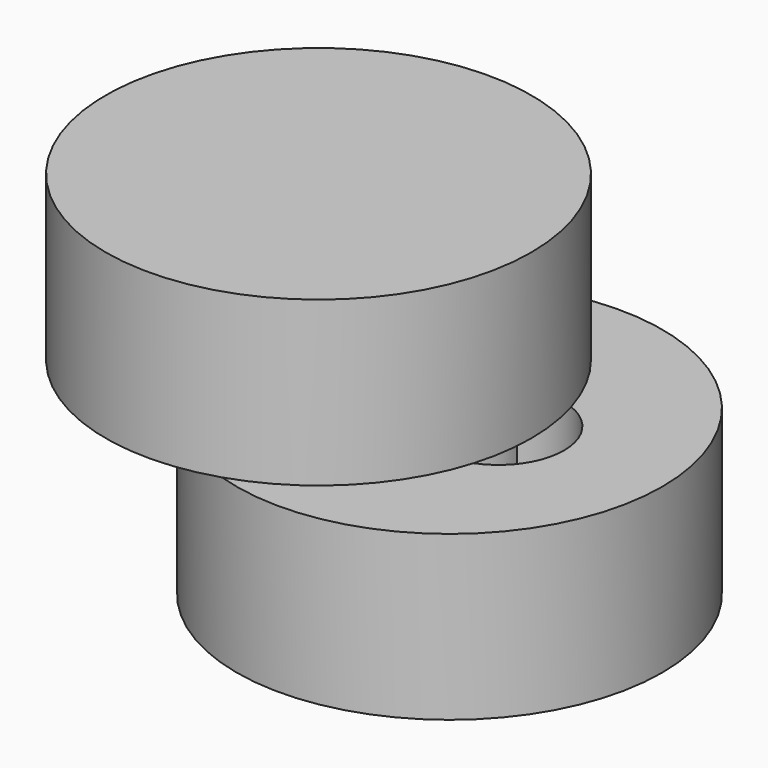
from build123d import *

# Parameters (mm, degrees)
KEY1SKETCH_R       = 6.5
KEYPADPAD_DEPTH    = 5
KEY2SKETCH_R       = 6.5
KEYPADPAD001_DEPTH = 5
PIN1SKETCH001_R    = 2
PIN1POCKET_DEPTH   = 10
PIN2SKETCH001_R    = 2
PIN2POCKET_DEPTH   = 10


with BuildPart() as part:
    # key1Sketch → keyPadPad (new body)
    with BuildSketch(Plane.XY):
        with Locations((2, 0)):
            Circle(KEY1SKETCH_R)
    extrude(amount=KEYPADPAD_DEPTH)

    # key2Sketch → keyPadPad001 (join)
    with BuildSketch(Plane.XY.offset(5)):
        with Locations((-2, 0)):
            Circle(KEY2SKETCH_R)
    extrude(amount=KEYPADPAD001_DEPTH)

    # Pin1Sketch001 → Pin1Pocket (cut)
    with BuildSketch(Plane.XY.offset(5)):
        with Locations((1.75, 0)):
            Circle(PIN1SKETCH001_R)
    extrude(amount=-PIN1POCKET_DEPTH, mode=Mode.SUBTRACT)

    # Pin2Sketch001 → Pin2Pocket (cut)
    with BuildSketch(Plane.XY.offset(5)):
        with Locations((3.5, 0)):
            Circle(PIN2SKETCH001_R)
    extrude(amount=-PIN2POCKET_DEPTH, mode=Mode.SUBTRACT)


with BuildPart() as part_1:
    # eccentricKey placement: moved
    add(part.part.moved(Location((0, 0, 10))))


solid = part_1.part
